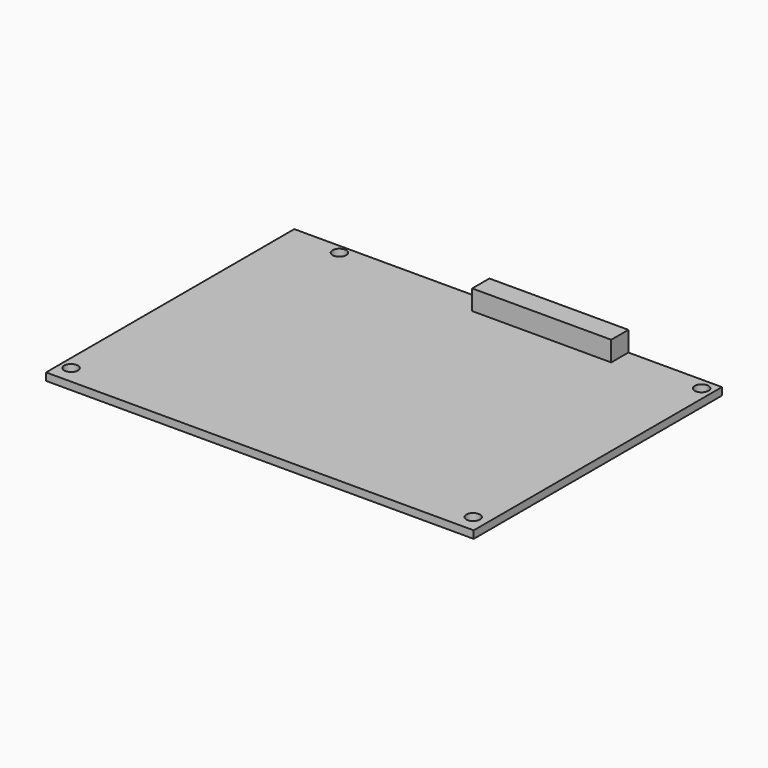
from build123d import *

# Parameters (mm, degrees)
F0_W     = 90.74
F0_H     = 65.84
F0_R     = 1.45
F1_DEPTH = 1.6
F2_W     = 29.5
F2_H     = 4.56
F3_DEPTH = 4.24
F4_T     = -0.5


with BuildPart() as f1:
    # F0 (on Top) → F1 (new body)
    with BuildSketch(Plane.XY):
        with Locations((45.37, 32.92)):
            Rectangle(F0_W, F0_H)
        with Locations((2.26, 3.81)):
            Circle(F0_R, mode=Mode.SUBTRACT)
        with Locations((87.69, 3.67)):
            Circle(F0_R, mode=Mode.SUBTRACT)
        with Locations((11.13, 63.9)):
            Circle(F0_R, mode=Mode.SUBTRACT)
        with Locations((88.39, 63.39)):
            Circle(F0_R, mode=Mode.SUBTRACT)
    extrude(amount=F1_DEPTH)


with BuildPart() as f3:
    # F2 (on face) → F3 (new body)
    with BuildSketch(Plane.XY.offset(1.6)):
        with Locations((56.15, 63.56)):
            Rectangle(F2_W, F2_H)
    extrude(amount=F3_DEPTH)

    # F4
    f4_openings = [f3.faces().sort_by_distance(p)[0] for p in [
        (56.15, 65.84, 3.72),
    ]]
    offset(amount=F4_T, openings=f4_openings)


solid = Compound([f1.part, f3.part])
